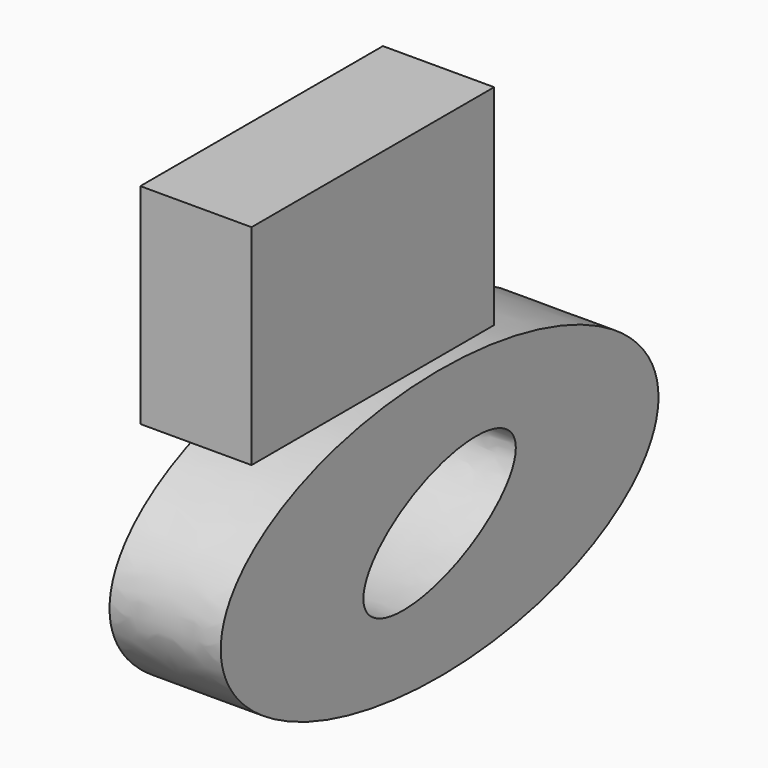
from build123d import *

# Parameters (mm, degrees)
F0_W     = 69.2472606897
F0_H     = 47.8324964643
F1_DEPTH = 25.4
F3_DEPTH = 25.4


with BuildPart() as f1:
    # F0 (on Right) → F1 (new body)
    with BuildSketch(Plane.YZ):
        with Locations((-19.062243402, 23.9162482321)):
            Rectangle(F0_W, F0_H)
    extrude(amount=F1_DEPTH)


with BuildPart() as f3:
    # F2 (on Right) → F3 (new body)
    with BuildSketch(Plane.YZ):
        with BuildLine():
            add(Edge.make_bspline(
                [(62.4709017575, -33.5249230266), (62.4709017575, 19.9131428433), (-31.2354508787, -6.8058900916), (-124.941803515, -33.5249230266), (-31.2354508787, -60.2439559615), (62.4709017575, -86.9629888965), (62.4709017575, -33.5249230266)],
                knots=[0, 0, 0, 2.0943951024, 2.0943951024, 4.1887902048, 4.1887902048, 6.2831853072, 6.2831853072, 6.2831853072], degree=2, weights=[1, 0.5, 1, 0.5, 1, 0.5, 1]))
        make_face()
        with BuildLine():
            add(Edge.make_bspline(
                [(21.3683098555, -25.1282677054), (14.3560476913, -7.2830442228), (-14.1902860098, -28.8006389458), (-42.7366197109, -50.3182336688), (-7.1780238456, -46.6458624285), (28.3805720197, -42.9734911881), (21.3683098555, -25.1282677054)],
                knots=[0, 0, 0, 2.0943951024, 2.0943951024, 4.1887902048, 4.1887902048, 6.2831853072, 6.2831853072, 6.2831853072], degree=2, weights=[1, 0.5, 1, 0.5, 1, 0.5, 1]))
        make_face(mode=Mode.SUBTRACT)
    extrude(amount=F3_DEPTH)


solid = Compound([f1.part, f3.part])
